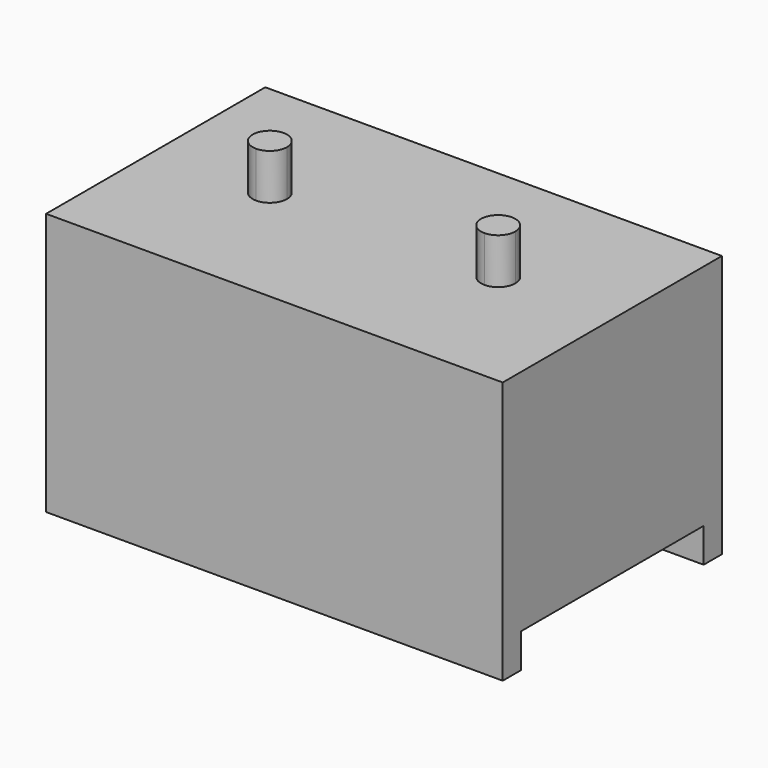
from build123d import *

# Parameters (mm, degrees)
F0_W     = 40
F0_H     = 20
F1_DEPTH = 20
F3_DEPTH = 4
F4_DEPTH = 2
F5_DEPTH = 2
F6_W     = 40
F6_H     = 2
F7_DEPTH = 3


with BuildPart() as f1:
    # F0 (on Top) → F1 (new body)
    with BuildSketch(Plane.XY):
        Rectangle(F0_W, F0_H)
    extrude(amount=F1_DEPTH)

    # F2 (on face) → F3 (join)
    with BuildSketch(Plane.XY.offset(20)):
        with BuildLine():
            Line((-10, -1.5), (-10, 1.5))
            ThreePointArc((-10, 1.5), (-11.5, 0), (-10, -1.5))
        make_face()
        with BuildLine():
            ThreePointArc((-8.5, 0), (-8.9393398282, 1.0606601718), (-10, 1.5))
            Line((-10, 1.5), (-10, -1.5))
            ThreePointArc((-10, -1.5), (-8.9393398282, -1.0606601718), (-8.5, 0))
        make_face()
        with BuildLine():
            Line((10, -1.5), (10, 1.5))
            ThreePointArc((10, 1.5), (8.5, 0), (10, -1.5))
        make_face()
        with BuildLine():
            ThreePointArc((11.5, 0), (11.0606601718, 1.0606601718), (10, 1.5))
            Line((10, 1.5), (10, -1.5))
            ThreePointArc((10, -1.5), (11.0606601718, -1.0606601718), (11.5, 0))
        make_face()
    extrude(amount=F3_DEPTH)

    # F4 (add): a face of the model
    f4_faces = [f1.faces().sort_by_distance(p)[0] for p in [
        (0, -10, 10),
    ]]
    extrude(f4_faces, amount=F4_DEPTH)

    # F5 (add): a face of the model
    f5_faces = [f1.faces().sort_by_distance(p)[0] for p in [
        (0, 10, 10),
    ]]
    extrude(f5_faces, amount=F5_DEPTH)

    # F6 (on face) → F7 (join)
    with BuildSketch(Plane(origin=(0, 0, 0), x_dir=(1, 0, 0), z_dir=(0, 0, -1))):
        with Locations((0, 11)):
            Rectangle(F6_W, F6_H)
        with Locations((0, -11)):
            Rectangle(F6_W, F6_H)
    extrude(amount=F7_DEPTH)


solid = f1.part
